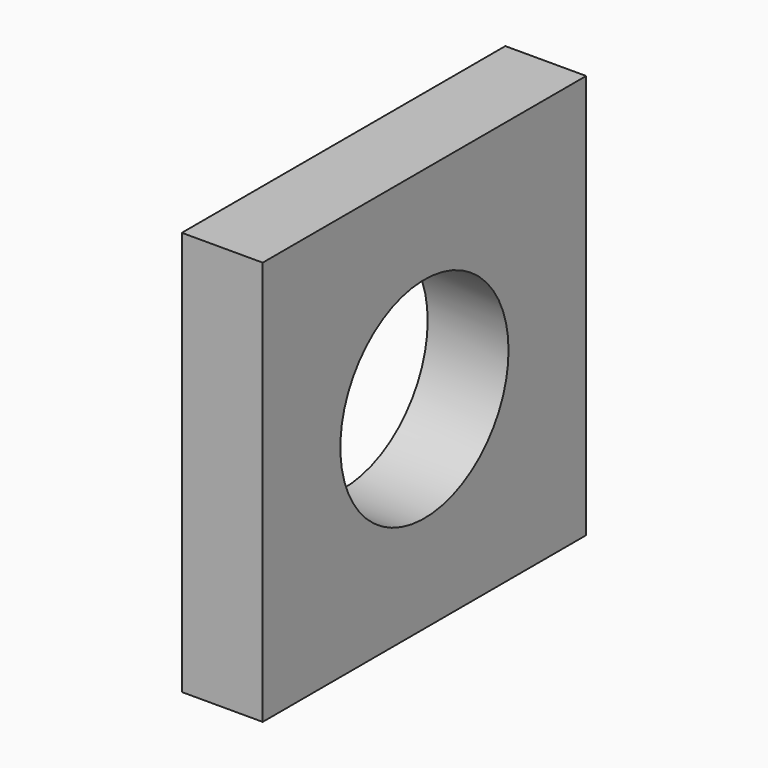
from build123d import *

# Parameters (mm, degrees)
F0_W     = 100
F0_H     = 100
F0_R     = 26
F1_DEPTH = 20


with BuildPart() as f1:
    # F0 (on Right) → F1 (new body)
    with BuildSketch(Plane.YZ):
        Rectangle(F0_W, F0_H)
        Circle(F0_R, mode=Mode.SUBTRACT)
    extrude(amount=F1_DEPTH)


solid = f1.part
